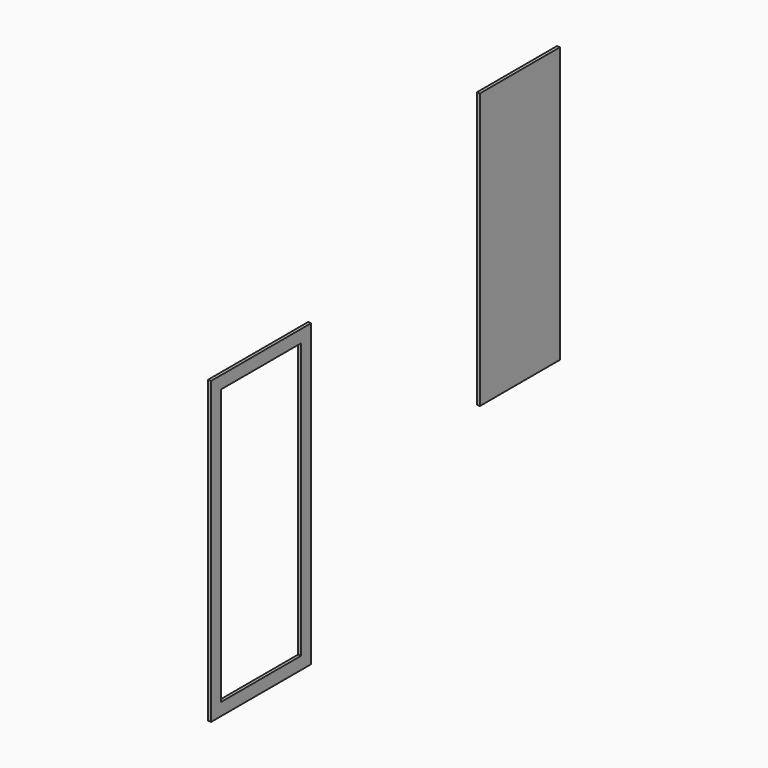
from build123d import *

# Parameters (mm, degrees)
F0_W     = 1000
F0_H     = 2400
F0_W_2   = 800
F0_H_2   = 2200
F1_DEPTH = 25
F2_W     = 800
F2_H     = 2200
F3_DEPTH = 25


with BuildPart() as f1:
    # F0 (on Right) → F1 (new body)
    with BuildSketch(Plane.YZ):
        Rectangle(F0_W, F0_H)
        Rectangle(F0_W_2, F0_H_2, mode=Mode.SUBTRACT)
    extrude(amount=F1_DEPTH)


with BuildPart() as f3:
    # F2 (on face) → F3 (new body)
    with BuildSketch(Plane(origin=(0, 0, 0), x_dir=(0, -1, 0), z_dir=(-1, 0, 0))):
        with Locations((-2617.029762, 1010.46647)):
            Rectangle(F2_W, F2_H)
    extrude(amount=F3_DEPTH)


solid = Compound([f1.part, f3.part])
